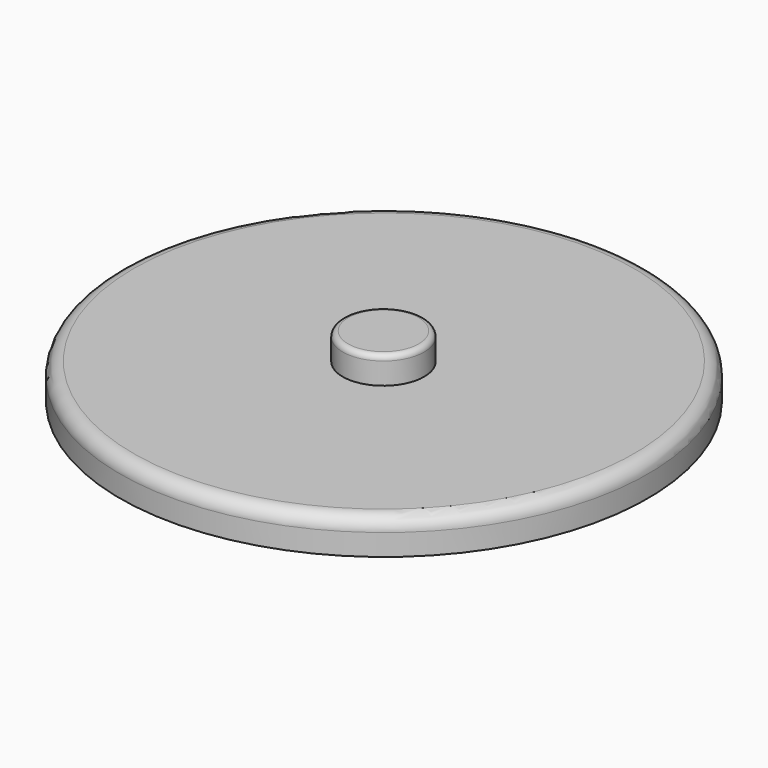
from build123d import *

# Parameters (mm, degrees)
F2_R     = 15
F3_DEPTH = 10
F4_R     = 2


with BuildPart() as f1:
    # F0 (on Front) → F1 (revolve)
    with BuildSketch(Plane.XZ):
        with BuildLine():
            Line((-97.105525, 26.374421), (-97.105525, 18.469065))
            Line((-97.105525, 18.469065), (0, 18.469065))
            Line((0, 18.469065), (0, 31.374421))
            Line((0, 31.374421), (-92.105525, 31.374421))
            ThreePointArc((-92.105525, 31.374421), (-95.641059, 29.909955), (-97.105525, 26.374421))
        make_face()
    revolve(axis=Axis((0, 0, 24.921743), (0, 0, -1)))

    # F2 (on face) → F3 (join)
    with BuildSketch(Plane.XY.offset(31.374421)):
        with Locations((0.124191, -0.372573)):
            Circle(F2_R)
    extrude(amount=F3_DEPTH)

    # F4
    f4_edges = [f1.edges().sort_by_distance(p)[0] for p in [
        (-14.875809, -0.372573, 41.374421),
    ]]
    fillet(f4_edges, radius=F4_R)


solid = f1.part
